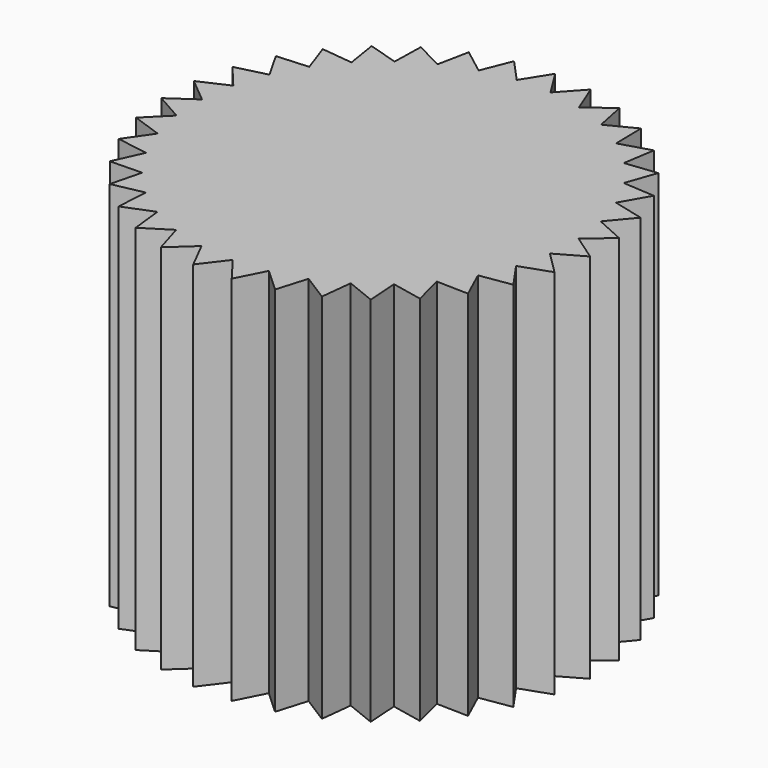
from build123d import *

# Parameters (mm, degrees)
F1_DEPTH = 25.4
F2_R     = 2.54
F3_DEPTH = 10.16


with BuildPart() as f1:
    # F0 (on Top) → F1 (new body)
    with BuildSketch(Plane.XY):
        with BuildLine():
            Line((-8.4697762195, -9.6944389239), (-8.4549061431, -9.4765269014))
            ThreePointArc((-8.4549061431, -9.4765269014), (-9.1794947706, -8.7764956421), (-9.8463125991, -8.0212298434))
            Line((-9.8463125991, -8.0212298434), (-10.0646723422, -8.0263083607))
            Line((-10.0646723422, -8.0263083607), (-10.5970315556, -10.1317995806))
            Line((-10.5970315556, -10.1317995806), (-8.4697762195, -9.6944389239))
        make_face()
        with BuildLine():
            ThreePointArc((-10.5256917391, 7.1063220736), (-9.9292598273, 7.9183204836), (-9.2703384989, 8.6804852466))
            Line((-9.2703384989, 8.6804852466), (-9.3046821958, 8.8961870761))
            Line((-9.3046821958, 8.8961870761), (-11.4625785344, 9.1411013491))
            Line((-11.4625785344, 9.1411013491), (-10.7436276648, 7.0918065299))
            Line((-10.7436276648, 7.0918065299), (-10.5256917391, 7.1063220736))
        make_face()
        with BuildLine():
            ThreePointArc((5.6291101888, 11.3843365412), (6.5138208231, 10.9022996787), (7.3575369752, 10.3516496105))
            Line((7.3575369752, 10.3516496105), (7.5666765851, 10.4146368498))
            Line((7.5666765851, 10.4146368498), (7.5197128529, 12.5858793551))
            Line((7.5197128529, 12.5858793551), (5.5854717631, 11.598351626))
            Line((5.5854717631, 11.598351626), (5.6291101888, 11.3843365412))
        make_face()
        with BuildLine():
            Line((8.4697762195, -9.6944389239), (8.2558324115, -9.6504523828))
            ThreePointArc((8.2558324115, -9.6504523828), (7.4648727041, -10.2745158286), (6.626933106, -10.8339170021))
            Line((6.626933106, -10.8339170021), (6.6026545201, -11.0509822435))
            Line((6.6026545201, -11.0509822435), (8.617630227, -11.8611504418))
            Line((8.617630227, -11.8611504418), (8.4697762195, -9.6944389239))
        make_face()
        with BuildLine():
            ThreePointArc((7.5713998544, 10.1962691336), (8.3558218194, 9.5640076182), (9.0876567396, 8.8715553869))
            Line((9.0876567396, 8.8715553869), (9.3046821958, 8.8961870761))
            Line((9.3046821958, 8.8961870761), (9.6461635097, 11.0409225193))
            Line((9.6461635097, 11.0409225193), (7.5666765851, 10.4146368498))
            Line((7.5666765851, 10.4146368498), (7.5713998544, 10.1962691336))
        make_face()
        with BuildLine():
            ThreePointArc((9.2703384989, 8.6804852466), (9.9292598273, 7.9183204836), (10.5256917391, 7.1063220736))
            Line((10.5256917391, 7.1063220736), (10.7436276648, 7.0918065299))
            Line((10.7436276648, 7.0918065299), (11.4625785344, 9.1411013491))
            Line((11.4625785344, 9.1411013491), (9.3046821958, 8.8961870761))
            Line((9.3046821958, 8.8961870761), (9.2703384989, 8.6804852466))
        make_face()
        with BuildLine():
            ThreePointArc((10.6713208363, 6.8857034214), (11.1835632546, 6.0181320134), (11.6254223454, 5.1126857218))
            Line((11.6254223454, 5.1126857218), (11.8372641008, 5.0594894867))
            Line((11.8372641008, 5.0594894867), (12.9105768535, 6.9474776603))
            Line((12.9105768535, 6.9474776603), (10.7436276648, 7.0918065299))
            Line((10.7436276648, 7.0918065299), (10.6713208363, 6.8857034214))
        make_face()
        with BuildLine():
            ThreePointArc((11.7293181417, 4.8696094227), (12.0784177569, 3.9245158286), (12.3515023122, 2.9547234442))
            Line((12.3515023122, 2.9547234442), (12.5504411288, 2.8645562884))
            Line((12.5504411288, 2.8645562884), (13.9436186098, 4.5305563231))
            Line((13.9436186098, 4.5305563231), (11.8372641008, 5.0594894867))
            Line((11.8372641008, 5.0594894867), (11.7293181417, 4.8696094227))
        make_face()
        with BuildLine():
            Line((6.6026545201, -11.0509822435), (6.4000029773, -10.9695014422))
            ThreePointArc((6.4000029773, -10.9695014422), (5.5103234868, -11.4423046224), (4.5859649862, -11.8430960962))
            Line((4.5859649862, -11.8430960962), (4.5233180717, -12.052337901))
            Line((4.5233180717, -12.052337901), (6.3612511723, -13.2092741683))
            Line((6.3612511723, -13.2092741683), (6.6026545201, -11.0509822435))
        make_face()
        with BuildLine():
            Line((-10.0646723422, -8.0263083607), (-10.01113154, -7.8145534287))
            ThreePointArc((-10.01113154, -7.8145534287), (-10.5990803223, -6.9963916644), (-11.1203241981, -6.134198377))
            Line((-11.1203241981, -6.134198377), (-11.3360816146, -6.1002056428))
            Line((-11.3360816146, -6.1002056428), (-12.2358355707, -8.0768043445))
            Line((-12.2358355707, -8.0768043445), (-10.0646723422, -8.0263083607))
        make_face()
        with BuildLine():
            ThreePointArc((-12.3515023122, 2.9547234442), (-12.0784177569, 3.9245158286), (-11.7293181417, 4.8696094227))
            Line((-11.7293181417, 4.8696094227), (-11.8372641008, 5.0594894867))
            Line((-11.8372641008, 5.0594894867), (-13.9436186098, 4.5305563231))
            Line((-13.9436186098, 4.5305563231), (-12.5504411288, 2.8645562884))
            Line((-12.5504411288, 2.8645562884), (-12.3515023122, 2.9547234442))
        make_face()
        with BuildLine():
            ThreePointArc((-9.0876567396, 8.8715553869), (-8.3558218194, 9.5640076182), (-7.5713998544, 10.1962691336))
            Line((-7.5713998544, 10.1962691336), (-7.5666765851, 10.4146368498))
            Line((-7.5666765851, 10.4146368498), (-9.6461635097, 11.0409225193))
            Line((-9.6461635097, 11.0409225193), (-9.3046821958, 8.8961870761))
            Line((-9.3046821958, 8.8961870761), (-9.0876567396, 8.8715553869))
        make_face()
        with BuildLine():
            Line((11.3360816146, -6.1002056428), (11.1203241981, -6.134198377))
            ThreePointArc((11.1203241981, -6.134198377), (10.5990803223, -6.9963916644), (10.01113154, -7.8145534287))
            Line((10.01113154, -7.8145534287), (10.0646723422, -8.0263083607))
            Line((10.0646723422, -8.0263083607), (12.2358355707, -8.0768043445))
            Line((12.2358355707, -8.0768043445), (11.3360816146, -6.1002056428))
        make_face()
        with BuildLine():
            Line((-4.5233180717, -12.052337901), (-4.5859649862, -11.8430960962))
            ThreePointArc((-4.5859649862, -11.8430960962), (-5.5103234868, -11.4423046224), (-6.4000029773, -10.9695014422))
            Line((-6.4000029773, -10.9695014422), (-6.6026545201, -11.0509822435))
            Line((-6.6026545201, -11.0509822435), (-6.3612511723, -13.2092741683))
            Line((-6.3612511723, -13.2092741683), (-4.5233180717, -12.052337901))
        make_face()
        with BuildLine():
            ThreePointArc((12.4103255111, 2.6970021705), (12.5850619745, 1.7047624759), (12.6805948318, 0.7017939239))
            Line((12.6805948318, 0.7017939239), (12.8602366525, 0.577553894))
            Line((12.8602366525, 0.577553894), (14.5285009911, 1.9680191779))
            Line((14.5285009911, 1.9680191779), (12.5504411288, 2.8645562884))
            Line((12.5504411288, 2.8645562884), (12.4103255111, 2.6970021705))
        make_face()
        with BuildLine():
            ThreePointArc((3.5058962901, 12.2065020052), (4.4624602658, 11.8901828571), (5.3909399186, 11.4990332982))
            Line((5.3909399186, 11.4990332982), (5.5854717631, 11.598351626))
            Line((5.5854717631, 11.598351626), (5.1515724377, 13.7263156728))
            Line((5.1515724377, 13.7263156728), (3.4247452829, 12.4092858378))
            Line((3.4247452829, 12.4092858378), (3.5058962901, 12.2065020052))
        make_face()
        with BuildLine():
            ThreePointArc((1.27, 12.6363404513), (2.2676725639, 12.4959057752), (3.2510736174, 12.2768285943))
            Line((3.2510736174, 12.2768285943), (3.4247452829, 12.4092858378))
            Line((3.4247452829, 12.4092858378), (2.6178562457, 14.4255769108))
            Line((2.6178562457, 14.4255769108), (1.1539446714, 12.8213753924))
            Line((1.1539446714, 12.8213753924), (1.27, 12.6363404513))
        make_face()
        with BuildLine():
            ThreePointArc((-11.6254223454, 5.1126857218), (-11.1835632546, 6.0181320134), (-10.6713208363, 6.8857034214))
            Line((-10.6713208363, 6.8857034214), (-10.7436276648, 7.0918065299))
            Line((-10.7436276648, 7.0918065299), (-12.9105768535, 6.9474776603))
            Line((-12.9105768535, 6.9474776603), (-11.8372641008, 5.0594894867))
            Line((-11.8372641008, 5.0594894867), (-11.6254223454, 5.1126857218))
        make_face()
        with BuildLine():
            ThreePointArc((12.6021225999, -1.5736918305), (12.6755070316, -0.788366343), (12.7, 0))
            ThreePointArc((12.7, 0), (12.6981135617, 0.2188880379), (12.6924548074, 0.4377110493))
            ThreePointArc((12.6924548074, 0.4377110493), (12.6872119451, 0.5697833455), (12.6805948318, 0.7017939239))
            ThreePointArc((12.6805948318, 0.7017939239), (12.5850619745, 1.7047624759), (12.4103255111, 2.6970021705))
            ThreePointArc((12.4103255111, 2.6970021705), (12.3815844847, 2.8260158612), (12.3515023122, 2.9547234442))
            ThreePointArc((12.3515023122, 2.9547234442), (12.0784177569, 3.9245158286), (11.7293181417, 4.8696094227))
            ThreePointArc((11.7293181417, 4.8696094227), (11.6780027114, 4.991417902), (11.6254223454, 5.1126857218))
            ThreePointArc((11.6254223454, 5.1126857218), (11.1835632546, 6.0181320134), (10.6713208363, 6.8857034214))
            ThreePointArc((10.6713208363, 6.8857034214), (10.5990803223, 6.9963916644), (10.5256917391, 7.1063220736))
            ThreePointArc((10.5256917391, 7.1063220736), (9.9292598273, 7.9183204836), (9.2703384989, 8.6804852466))
            ThreePointArc((9.2703384989, 8.6804852466), (9.1794947706, 8.7764956421), (9.0876567396, 8.8715553869))
            ThreePointArc((9.0876567396, 8.8715553869), (8.3558218194, 9.5640076182), (7.5713998544, 10.1962691336))
            ThreePointArc((7.5713998544, 10.1962691336), (7.4648727041, 10.2745158286), (7.3575369752, 10.3516496105))
            ThreePointArc((7.3575369752, 10.3516496105), (6.5138208231, 10.9022996787), (5.6291101888, 11.3843365412))
            ThreePointArc((5.6291101888, 11.3843365412), (5.5103234868, 11.4423046224), (5.3909399186, 11.4990332982))
            ThreePointArc((5.3909399186, 11.4990332982), (4.4624602658, 11.8901828571), (3.5058962901, 12.2065020052))
            ThreePointArc((3.5058962901, 12.2065020052), (3.3786679387, 12.2423283308), (3.2510736174, 12.2768285943))
            ThreePointArc((3.2510736174, 12.2768285943), (2.2676725639, 12.4959057752), (1.27, 12.6363404513))
            ThreePointArc((1.27, 12.6363404513), (1.1384192231, 12.6488735337), (1.0067151351, 12.660036518))
            ThreePointArc((1.0067151351, 12.660036518), (0, 12.7), (-1.0067151351, 12.660036518))
            ThreePointArc((-1.0067151351, 12.660036518), (-1.1384192231, 12.6488735337), (-1.27, 12.6363404513))
            ThreePointArc((-1.27, 12.6363404513), (-2.2676725639, 12.4959057752), (-3.2510736174, 12.2768285943))
            ThreePointArc((-3.2510736174, 12.2768285943), (-3.3786679387, 12.2423283308), (-3.5058962901, 12.2065020052))
            ThreePointArc((-3.5058962901, 12.2065020052), (-4.4624602658, 11.8901828571), (-5.3909399186, 11.4990332982))
            ThreePointArc((-5.3909399186, 11.4990332982), (-5.5103234868, 11.4423046224), (-5.6291101888, 11.3843365412))
            ThreePointArc((-5.6291101888, 11.3843365412), (-6.5138208231, 10.9022996787), (-7.3575369752, 10.3516496105))
            ThreePointArc((-7.3575369752, 10.3516496105), (-7.4648727041, 10.2745158286), (-7.5713998544, 10.1962691336))
            ThreePointArc((-7.5713998544, 10.1962691336), (-8.3558218194, 9.5640076182), (-9.0876567396, 8.8715553869))
            ThreePointArc((-9.0876567396, 8.8715553869), (-9.1794947706, 8.7764956421), (-9.2703384989, 8.6804852466))
            ThreePointArc((-9.2703384989, 8.6804852466), (-9.9292598273, 7.9183204836), (-10.5256917391, 7.1063220736))
            ThreePointArc((-10.5256917391, 7.1063220736), (-10.5990803223, 6.9963916644), (-10.6713208363, 6.8857034214))
            ThreePointArc((-10.6713208363, 6.8857034214), (-11.1835632546, 6.0181320134), (-11.6254223454, 5.1126857218))
            ThreePointArc((-11.6254223454, 5.1126857218), (-11.6780027114, 4.991417902), (-11.7293181417, 4.8696094227))
            ThreePointArc((-11.7293181417, 4.8696094227), (-12.0784177569, 3.9245158286), (-12.3515023122, 2.9547234442))
            ThreePointArc((-12.3515023122, 2.9547234442), (-12.3815844847, 2.8260158612), (-12.4103255111, 2.6970021705))
            ThreePointArc((-12.4103255111, 2.6970021705), (-12.5850619745, 1.7047624759), (-12.6805948318, 0.7017939239))
            ThreePointArc((-12.6805948318, 0.7017939239), (-12.6872119451, 0.5697833455), (-12.6924548074, 0.4377110493))
            ThreePointArc((-12.6924548074, 0.4377110493), (-12.6872119451, -0.5697833455), (-12.6021225999, -1.5736918305))
            ThreePointArc((-12.6021225999, -1.5736918305), (-12.5850619745, -1.7047624759), (-12.5666381627, -1.8356484651))
            ThreePointArc((-12.5666381627, -1.8356484651), (-12.3815844847, -2.8260158612), (-12.1186077785, -3.7985978347))
            ThreePointArc((-12.1186077785, -3.7985978347), (-12.0784177569, -3.9245158286), (-12.0369194276, -4.0500087275))
            ThreePointArc((-12.0369194276, -4.0500087275), (-11.6780027114, -4.991417902), (-11.245590932, -5.901413779))
            ThreePointArc((-11.245590932, -5.901413779), (-11.1835632546, -6.0181320134), (-11.1203241981, -6.134198377))
            ThreePointArc((-11.1203241981, -6.134198377), (-10.5990803223, -6.9963916644), (-10.01113154, -7.8145534287))
            ThreePointArc((-10.01113154, -7.8145534287), (-9.9292598273, -7.9183204836), (-9.8463125991, -8.0212298434))
            ThreePointArc((-9.8463125991, -8.0212298434), (-9.1794947706, -8.7764956421), (-8.4549061431, -9.4765269014))
            ThreePointArc((-8.4549061431, -9.4765269014), (-8.3558218194, -9.5640076182), (-8.2558324115, -9.6504523828))
            ThreePointArc((-8.2558324115, -9.6504523828), (-7.4648727041, -10.2745158286), (-6.626933106, -10.8339170021))
            ThreePointArc((-6.626933106, -10.8339170021), (-6.5138208231, -10.9022996787), (-6.4000029773, -10.9695014422))
            ThreePointArc((-6.4000029773, -10.9695014422), (-5.5103234868, -11.4423046224), (-4.5859649862, -11.8430960962))
            ThreePointArc((-4.5859649862, -11.8430960962), (-4.4624602658, -11.8901828571), (-4.3384721815, -11.9359816995))
            ThreePointArc((-4.3384721815, -11.9359816995), (-3.3786679387, -12.2423283308), (-2.3976001785, -12.4716283373))
            ThreePointArc((-2.3976001785, -12.4716283373), (-2.2676725639, -12.4959057752), (-2.1374993201, -12.518829684))
            ThreePointArc((-2.1374993201, -12.518829684), (-1.1384192231, -12.6488735337), (-0.1321745283, -12.6993121819))
            ThreePointArc((-0.1321745283, -12.6993121819), (0, -12.7), (0.1321745283, -12.6993121819))
            ThreePointArc((0.1321745283, -12.6993121819), (1.1384192231, -12.6488735337), (2.1374993201, -12.518829684))
            ThreePointArc((2.1374993201, -12.518829684), (2.2676725639, -12.4959057752), (2.3976001785, -12.4716283373))
            ThreePointArc((2.3976001785, -12.4716283373), (3.3786679387, -12.2423283308), (4.3384721815, -11.9359816995))
            ThreePointArc((4.3384721815, -11.9359816995), (4.4624602658, -11.8901828571), (4.5859649862, -11.8430960962))
            ThreePointArc((4.5859649862, -11.8430960962), (5.5103234868, -11.4423046224), (6.4000029773, -10.9695014422))
            ThreePointArc((6.4000029773, -10.9695014422), (6.5138208231, -10.9022996787), (6.626933106, -10.8339170021))
            ThreePointArc((6.626933106, -10.8339170021), (7.4648727041, -10.2745158286), (8.2558324115, -9.6504523828))
            ThreePointArc((8.2558324115, -9.6504523828), (8.3558218194, -9.5640076182), (8.4549061431, -9.4765269014))
            ThreePointArc((8.4549061431, -9.4765269014), (9.1794947706, -8.7764956421), (9.8463125991, -8.0212298434))
            ThreePointArc((9.8463125991, -8.0212298434), (9.9292598273, -7.9183204836), (10.01113154, -7.8145534287))
            ThreePointArc((10.01113154, -7.8145534287), (10.5990803223, -6.9963916644), (11.1203241981, -6.134198377))
            ThreePointArc((11.1203241981, -6.134198377), (11.1835632546, -6.0181320134), (11.245590932, -5.901413779))
            ThreePointArc((11.245590932, -5.901413779), (11.6780027114, -4.991417902), (12.0369194276, -4.0500087275))
            ThreePointArc((12.0369194276, -4.0500087275), (12.0784177569, -3.9245158286), (12.1186077785, -3.7985978347))
            ThreePointArc((12.1186077785, -3.7985978347), (12.3815844847, -2.8260158612), (12.5666381627, -1.8356484651))
            ThreePointArc((12.5666381627, -1.8356484651), (12.5850619745, -1.7047624759), (12.6021225999, -1.5736918305))
        make_face()
        with BuildLine():
            Line((-6.6026545201, -11.0509822435), (-6.626933106, -10.8339170021))
            ThreePointArc((-6.626933106, -10.8339170021), (-7.4648727041, -10.2745158286), (-8.2558324115, -9.6504523828))
            Line((-8.2558324115, -9.6504523828), (-8.4697762195, -9.6944389239))
            Line((-8.4697762195, -9.6944389239), (-8.617630227, -11.8611504418))
            Line((-8.617630227, -11.8611504418), (-6.6026545201, -11.0509822435))
        make_face()
        with BuildLine():
            ThreePointArc((-1.0067151351, 12.660036518), (0, 12.7), (1.0067151351, 12.660036518))
            Line((1.0067151351, 12.660036518), (1.1539446714, 12.8213753924))
            Line((1.1539446714, 12.8213753924), (0, 14.6611882374))
            Line((0, 14.6611882374), (-1.1539446714, 12.8213753924))
            Line((-1.1539446714, 12.8213753924), (-1.0067151351, 12.660036518))
        make_face()
        with BuildLine():
            Line((12.2431398966, -3.9780372961), (12.0369194276, -4.0500087275))
            ThreePointArc((12.0369194276, -4.0500087275), (11.6780027114, -4.991417902), (11.245590932, -5.901413779))
            Line((11.245590932, -5.901413779), (11.3360816146, -6.1002056428))
            Line((11.3360816146, -6.1002056428), (13.4813697629, -5.7622139711))
            Line((13.4813697629, -5.7622139711), (12.2431398966, -3.9780372961))
        make_face()
        with BuildLine():
            Line((-2.2985984587, -12.6663215016), (-2.3976001785, -12.4716283373))
            ThreePointArc((-2.3976001785, -12.4716283373), (-3.3786679387, -12.2423283308), (-4.3384721815, -11.9359816995))
            Line((-4.3384721815, -11.9359816995), (-4.5233180717, -12.052337901))
            Line((-4.5233180717, -12.052337901), (-3.9004162709, -14.1328409545))
            Line((-3.9004162709, -14.1328409545), (-2.2985984587, -12.6663215016))
        make_face()
        with BuildLine():
            ThreePointArc((-12.6805948318, 0.7017939239), (-12.5850619745, 1.7047624759), (-12.4103255111, 2.6970021705))
            Line((-12.4103255111, 2.6970021705), (-12.5504411288, 2.8645562884))
            Line((-12.5504411288, 2.8645562884), (-14.5285009911, 1.9680191779))
            Line((-14.5285009911, 1.9680191779), (-12.8602366525, 0.577553894))
            Line((-12.8602366525, 0.577553894), (-12.6805948318, 0.7017939239))
        make_face()
        with BuildLine():
            Line((10.0646723422, -8.0263083607), (9.8463125991, -8.0212298434))
            ThreePointArc((9.8463125991, -8.0212298434), (9.1794947706, -8.7764956421), (8.4549061431, -9.4765269014))
            Line((8.4549061431, -9.4765269014), (8.4697762195, -9.6944389239))
            Line((8.4697762195, -9.6944389239), (10.5970315556, -10.1317995806))
            Line((10.5970315556, -10.1317995806), (10.0646723422, -8.0263083607))
        make_face()
        with BuildLine():
            Line((-12.2431398966, -3.9780372961), (-12.1186077785, -3.7985978347))
            ThreePointArc((-12.1186077785, -3.7985978347), (-12.3815844847, -2.8260158612), (-12.5666381627, -1.8356484651))
            Line((-12.5666381627, -1.8356484651), (-12.7566935886, -1.7280115577))
            Line((-12.7566935886, -1.7280115577), (-14.2936016384, -3.2624212995))
            Line((-14.2936016384, -3.2624212995), (-12.2431398966, -3.9780372961))
        make_face()
        with BuildLine():
            Line((2.2985984587, -12.6663215016), (2.1374993201, -12.518829684))
            ThreePointArc((2.1374993201, -12.518829684), (1.1384192231, -12.6488735337), (0.1321745283, -12.6993121819))
            Line((0.1321745283, -12.6993121819), (0, -12.8731991074))
            Line((0, -12.8731991074), (1.3142187813, -14.6021666038))
            Line((1.3142187813, -14.6021666038), (2.2985984587, -12.6663215016))
        make_face()
        with BuildLine():
            ThreePointArc((12.6924548074, 0.4377110493), (12.6981135617, 0.2188880379), (12.7, 0))
            ThreePointArc((12.7, 0), (12.6755070316, -0.788366343), (12.6021225999, -1.5736918305))
            Line((12.6021225999, -1.5736918305), (12.7566935886, -1.7280115577))
            Line((12.7566935886, -1.7280115577), (14.6464253964, -0.657771723))
            Line((14.6464253964, -0.657771723), (12.8602366525, 0.577553894))
            Line((12.8602366525, 0.577553894), (12.6924548074, 0.4377110493))
        make_face()
        with BuildLine():
            ThreePointArc((-5.3909399186, 11.4990332982), (-4.4624602658, 11.8901828571), (-3.5058962901, 12.2065020052))
            Line((-3.5058962901, 12.2065020052), (-3.4247452829, 12.4092858378))
            Line((-3.4247452829, 12.4092858378), (-5.1515724377, 13.7263156728))
            Line((-5.1515724377, 13.7263156728), (-5.5854717631, 11.598351626))
            Line((-5.5854717631, 11.598351626), (-5.3909399186, 11.4990332982))
        make_face()
        with BuildLine():
            Line((0, -12.8731991074), (-0.1321745283, -12.6993121819))
            ThreePointArc((-0.1321745283, -12.6993121819), (-1.1384192231, -12.6488735337), (-2.1374993201, -12.518829684))
            Line((-2.1374993201, -12.518829684), (-2.2985984587, -12.6663215016))
            Line((-2.2985984587, -12.6663215016), (-1.3142187813, -14.6021666038))
            Line((-1.3142187813, -14.6021666038), (0, -12.8731991074))
        make_face()
        with BuildLine():
            Line((12.7566935886, -1.7280115577), (12.5666381627, -1.8356484651))
            ThreePointArc((12.5666381627, -1.8356484651), (12.3815844847, -2.8260158612), (12.1186077785, -3.7985978347))
            Line((12.1186077785, -3.7985978347), (12.2431398966, -3.9780372961))
            Line((12.2431398966, -3.9780372961), (14.2936016384, -3.2624212995))
            Line((14.2936016384, -3.2624212995), (12.7566935886, -1.7280115577))
        make_face()
        with BuildLine():
            Line((-12.7566935886, -1.7280115577), (-12.6021225999, -1.5736918305))
            ThreePointArc((-12.6021225999, -1.5736918305), (-12.6872119451, -0.5697833455), (-12.6924548074, 0.4377110493))
            Line((-12.6924548074, 0.4377110493), (-12.8602366525, 0.577553894))
            Line((-12.8602366525, 0.577553894), (-14.6464253964, -0.657771723))
            Line((-14.6464253964, -0.657771723), (-12.7566935886, -1.7280115577))
        make_face()
        with BuildLine():
            ThreePointArc((-3.2510736174, 12.2768285943), (-2.2676725639, 12.4959057752), (-1.27, 12.6363404513))
            Line((-1.27, 12.6363404513), (-1.1539446714, 12.8213753924))
            Line((-1.1539446714, 12.8213753924), (-2.6178562457, 14.4255769108))
            Line((-2.6178562457, 14.4255769108), (-3.4247452829, 12.4092858378))
            Line((-3.4247452829, 12.4092858378), (-3.2510736174, 12.2768285943))
        make_face()
        with BuildLine():
            ThreePointArc((-7.3575369752, 10.3516496105), (-6.5138208231, 10.9022996787), (-5.6291101888, 11.3843365412))
            Line((-5.6291101888, 11.3843365412), (-5.5854717631, 11.598351626))
            Line((-5.5854717631, 11.598351626), (-7.5197128529, 12.5858793551))
            Line((-7.5197128529, 12.5858793551), (-7.5666765851, 10.4146368498))
            Line((-7.5666765851, 10.4146368498), (-7.3575369752, 10.3516496105))
        make_face()
        with BuildLine():
            Line((-11.3360816146, -6.1002056428), (-11.245590932, -5.901413779))
            ThreePointArc((-11.245590932, -5.901413779), (-11.6780027114, -4.991417902), (-12.0369194276, -4.0500087275))
            Line((-12.0369194276, -4.0500087275), (-12.2431398966, -3.9780372961))
            Line((-12.2431398966, -3.9780372961), (-13.4813697629, -5.7622139711))
            Line((-13.4813697629, -5.7622139711), (-11.3360816146, -6.1002056428))
        make_face()
        with BuildLine():
            Line((4.5233180717, -12.052337901), (4.3384721815, -11.9359816995))
            ThreePointArc((4.3384721815, -11.9359816995), (3.3786679387, -12.2423283308), (2.3976001785, -12.4716283373))
            Line((2.3976001785, -12.4716283373), (2.2985984587, -12.6663215016))
            Line((2.2985984587, -12.6663215016), (3.9004162709, -14.1328409545))
            Line((3.9004162709, -14.1328409545), (4.5233180717, -12.052337901))
        make_face()
        with BuildLine():
            ThreePointArc((5.3909399186, 11.4990332982), (5.5103234868, 11.4423046224), (5.6291101888, 11.3843365412))
            Line((5.6291101888, 11.3843365412), (5.5854717631, 11.598351626))
            Line((5.5854717631, 11.598351626), (5.3909399186, 11.4990332982))
        make_face()
        with BuildLine():
            Line((4.5233180717, -12.052337901), (4.5859649862, -11.8430960962))
            ThreePointArc((4.5859649862, -11.8430960962), (4.4624602658, -11.8901828571), (4.3384721815, -11.9359816995))
            Line((4.3384721815, -11.9359816995), (4.5233180717, -12.052337901))
        make_face()
        with BuildLine():
            ThreePointArc((7.3575369752, 10.3516496105), (7.4648727041, 10.2745158286), (7.5713998544, 10.1962691336))
            Line((7.5713998544, 10.1962691336), (7.5666765851, 10.4146368498))
            Line((7.5666765851, 10.4146368498), (7.3575369752, 10.3516496105))
        make_face()
        with BuildLine():
            Line((-4.5233180717, -12.052337901), (-4.3384721815, -11.9359816995))
            ThreePointArc((-4.3384721815, -11.9359816995), (-4.4624602658, -11.8901828571), (-4.5859649862, -11.8430960962))
            Line((-4.5859649862, -11.8430960962), (-4.5233180717, -12.052337901))
        make_face()
        with BuildLine():
            ThreePointArc((10.5256917391, 7.1063220736), (10.5990803223, 6.9963916644), (10.6713208363, 6.8857034214))
            Line((10.6713208363, 6.8857034214), (10.7436276648, 7.0918065299))
            Line((10.7436276648, 7.0918065299), (10.5256917391, 7.1063220736))
        make_face()
        with BuildLine():
            ThreePointArc((9.0876567396, 8.8715553869), (9.1794947706, 8.7764956421), (9.2703384989, 8.6804852466))
            Line((9.2703384989, 8.6804852466), (9.3046821958, 8.8961870761))
            Line((9.3046821958, 8.8961870761), (9.0876567396, 8.8715553869))
        make_face()
        with BuildLine():
            Line((11.3360816146, -6.1002056428), (11.245590932, -5.901413779))
            ThreePointArc((11.245590932, -5.901413779), (11.1835632546, -6.0181320134), (11.1203241981, -6.134198377))
            Line((11.1203241981, -6.134198377), (11.3360816146, -6.1002056428))
        make_face()
        with BuildLine():
            ThreePointArc((11.6254223454, 5.1126857218), (11.6780027114, 4.991417902), (11.7293181417, 4.8696094227))
            Line((11.7293181417, 4.8696094227), (11.8372641008, 5.0594894867))
            Line((11.8372641008, 5.0594894867), (11.6254223454, 5.1126857218))
        make_face()
        with BuildLine():
            ThreePointArc((-12.4103255111, 2.6970021705), (-12.3815844847, 2.8260158612), (-12.3515023122, 2.9547234442))
            Line((-12.3515023122, 2.9547234442), (-12.5504411288, 2.8645562884))
            Line((-12.5504411288, 2.8645562884), (-12.4103255111, 2.6970021705))
        make_face()
        with BuildLine():
            Line((-11.3360816146, -6.1002056428), (-11.1203241981, -6.134198377))
            ThreePointArc((-11.1203241981, -6.134198377), (-11.1835632546, -6.0181320134), (-11.245590932, -5.901413779))
            Line((-11.245590932, -5.901413779), (-11.3360816146, -6.1002056428))
        make_face()
        with BuildLine():
            ThreePointArc((-7.5713998544, 10.1962691336), (-7.4648727041, 10.2745158286), (-7.3575369752, 10.3516496105))
            Line((-7.3575369752, 10.3516496105), (-7.5666765851, 10.4146368498))
            Line((-7.5666765851, 10.4146368498), (-7.5713998544, 10.1962691336))
        make_face()
        with BuildLine():
            ThreePointArc((12.3515023122, 2.9547234442), (12.3815844847, 2.8260158612), (12.4103255111, 2.6970021705))
            Line((12.4103255111, 2.6970021705), (12.5504411288, 2.8645562884))
            Line((12.5504411288, 2.8645562884), (12.3515023122, 2.9547234442))
        make_face()
        with BuildLine():
            ThreePointArc((12.6805948318, 0.7017939239), (12.6872119451, 0.5697833455), (12.6924548074, 0.4377110493))
            Line((12.6924548074, 0.4377110493), (12.8602366525, 0.577553894))
            Line((12.8602366525, 0.577553894), (12.6805948318, 0.7017939239))
        make_face()
        with BuildLine():
            ThreePointArc((3.2510736174, 12.2768285943), (3.3786679387, 12.2423283308), (3.5058962901, 12.2065020052))
            Line((3.5058962901, 12.2065020052), (3.4247452829, 12.4092858378))
            Line((3.4247452829, 12.4092858378), (3.2510736174, 12.2768285943))
        make_face()
        with BuildLine():
            Line((10.0646723422, -8.0263083607), (10.01113154, -7.8145534287))
            ThreePointArc((10.01113154, -7.8145534287), (9.9292598273, -7.9183204836), (9.8463125991, -8.0212298434))
            Line((9.8463125991, -8.0212298434), (10.0646723422, -8.0263083607))
        make_face()
        with BuildLine():
            ThreePointArc((-5.6291101888, 11.3843365412), (-5.5103234868, 11.4423046224), (-5.3909399186, 11.4990332982))
            Line((-5.3909399186, 11.4990332982), (-5.5854717631, 11.598351626))
            Line((-5.5854717631, 11.598351626), (-5.6291101888, 11.3843365412))
        make_face()
        with BuildLine():
            Line((-12.2431398966, -3.9780372961), (-12.0369194276, -4.0500087275))
            ThreePointArc((-12.0369194276, -4.0500087275), (-12.0784177569, -3.9245158286), (-12.1186077785, -3.7985978347))
            Line((-12.1186077785, -3.7985978347), (-12.2431398966, -3.9780372961))
        make_face()
        with BuildLine():
            Line((2.2985984587, -12.6663215016), (2.3976001785, -12.4716283373))
            ThreePointArc((2.3976001785, -12.4716283373), (2.2676725639, -12.4959057752), (2.1374993201, -12.518829684))
            Line((2.1374993201, -12.518829684), (2.2985984587, -12.6663215016))
        make_face()
        with BuildLine():
            Line((-6.6026545201, -11.0509822435), (-6.4000029773, -10.9695014422))
            ThreePointArc((-6.4000029773, -10.9695014422), (-6.5138208231, -10.9022996787), (-6.626933106, -10.8339170021))
            Line((-6.626933106, -10.8339170021), (-6.6026545201, -11.0509822435))
        make_face()
        with BuildLine():
            ThreePointArc((-11.7293181417, 4.8696094227), (-11.6780027114, 4.991417902), (-11.6254223454, 5.1126857218))
            Line((-11.6254223454, 5.1126857218), (-11.8372641008, 5.0594894867))
            Line((-11.8372641008, 5.0594894867), (-11.7293181417, 4.8696094227))
        make_face()
        with BuildLine():
            Line((6.6026545201, -11.0509822435), (6.626933106, -10.8339170021))
            ThreePointArc((6.626933106, -10.8339170021), (6.5138208231, -10.9022996787), (6.4000029773, -10.9695014422))
            Line((6.4000029773, -10.9695014422), (6.6026545201, -11.0509822435))
        make_face()
        with BuildLine():
            ThreePointArc((-9.2703384989, 8.6804852466), (-9.1794947706, 8.7764956421), (-9.0876567396, 8.8715553869))
            Line((-9.0876567396, 8.8715553869), (-9.3046821958, 8.8961870761))
            Line((-9.3046821958, 8.8961870761), (-9.2703384989, 8.6804852466))
        make_face()
        with BuildLine():
            Line((-10.0646723422, -8.0263083607), (-9.8463125991, -8.0212298434))
            ThreePointArc((-9.8463125991, -8.0212298434), (-9.9292598273, -7.9183204836), (-10.01113154, -7.8145534287))
            Line((-10.01113154, -7.8145534287), (-10.0646723422, -8.0263083607))
        make_face()
        with BuildLine():
            Line((-8.4697762195, -9.6944389239), (-8.2558324115, -9.6504523828))
            ThreePointArc((-8.2558324115, -9.6504523828), (-8.3558218194, -9.5640076182), (-8.4549061431, -9.4765269014))
            Line((-8.4549061431, -9.4765269014), (-8.4697762195, -9.6944389239))
        make_face()
        with BuildLine():
            ThreePointArc((-10.6713208363, 6.8857034214), (-10.5990803223, 6.9963916644), (-10.5256917391, 7.1063220736))
            Line((-10.5256917391, 7.1063220736), (-10.7436276648, 7.0918065299))
            Line((-10.7436276648, 7.0918065299), (-10.6713208363, 6.8857034214))
        make_face()
        with BuildLine():
            ThreePointArc((-1.27, 12.6363404513), (-1.1384192231, 12.6488735337), (-1.0067151351, 12.660036518))
            Line((-1.0067151351, 12.660036518), (-1.1539446714, 12.8213753924))
            Line((-1.1539446714, 12.8213753924), (-1.27, 12.6363404513))
        make_face()
        with BuildLine():
            Line((12.2431398966, -3.9780372961), (12.1186077785, -3.7985978347))
            ThreePointArc((12.1186077785, -3.7985978347), (12.0784177569, -3.9245158286), (12.0369194276, -4.0500087275))
            Line((12.0369194276, -4.0500087275), (12.2431398966, -3.9780372961))
        make_face()
        with BuildLine():
            Line((-2.2985984587, -12.6663215016), (-2.1374993201, -12.518829684))
            ThreePointArc((-2.1374993201, -12.518829684), (-2.2676725639, -12.4959057752), (-2.3976001785, -12.4716283373))
            Line((-2.3976001785, -12.4716283373), (-2.2985984587, -12.6663215016))
        make_face()
        with BuildLine():
            Line((-12.7566935886, -1.7280115577), (-12.5666381627, -1.8356484651))
            ThreePointArc((-12.5666381627, -1.8356484651), (-12.5850619745, -1.7047624759), (-12.6021225999, -1.5736918305))
            Line((-12.6021225999, -1.5736918305), (-12.7566935886, -1.7280115577))
        make_face()
        with BuildLine():
            Line((8.4697762195, -9.6944389239), (8.4549061431, -9.4765269014))
            ThreePointArc((8.4549061431, -9.4765269014), (8.3558218194, -9.5640076182), (8.2558324115, -9.6504523828))
            Line((8.2558324115, -9.6504523828), (8.4697762195, -9.6944389239))
        make_face()
        with BuildLine():
            Line((0, -12.8731991074), (0.1321745283, -12.6993121819))
            ThreePointArc((0.1321745283, -12.6993121819), (0, -12.7), (-0.1321745283, -12.6993121819))
            Line((-0.1321745283, -12.6993121819), (0, -12.8731991074))
        make_face()
        with BuildLine():
            Line((12.7566935886, -1.7280115577), (12.6021225999, -1.5736918305))
            ThreePointArc((12.6021225999, -1.5736918305), (12.5850619745, -1.7047624759), (12.5666381627, -1.8356484651))
            Line((12.5666381627, -1.8356484651), (12.7566935886, -1.7280115577))
        make_face()
        with BuildLine():
            ThreePointArc((-3.5058962901, 12.2065020052), (-3.3786679387, 12.2423283308), (-3.2510736174, 12.2768285943))
            Line((-3.2510736174, 12.2768285943), (-3.4247452829, 12.4092858378))
            Line((-3.4247452829, 12.4092858378), (-3.5058962901, 12.2065020052))
        make_face()
        with BuildLine():
            ThreePointArc((-12.6924548074, 0.4377110493), (-12.6872119451, 0.5697833455), (-12.6805948318, 0.7017939239))
            Line((-12.6805948318, 0.7017939239), (-12.8602366525, 0.577553894))
            Line((-12.8602366525, 0.577553894), (-12.6924548074, 0.4377110493))
        make_face()
        with BuildLine():
            ThreePointArc((1.0067151351, 12.660036518), (1.1384192231, 12.6488735337), (1.27, 12.6363404513))
            Line((1.27, 12.6363404513), (1.1539446714, 12.8213753924))
            Line((1.1539446714, 12.8213753924), (1.0067151351, 12.660036518))
        make_face()
    extrude(amount=F1_DEPTH)

    # F2 (on face) → F3 (cut)
    with BuildSketch(Plane(origin=(0, 0, 0), x_dir=(1, 0, 0), z_dir=(0, 0, -1))):
        Circle(F2_R)
    extrude(amount=-F3_DEPTH, mode=Mode.SUBTRACT)


solid = f1.part
